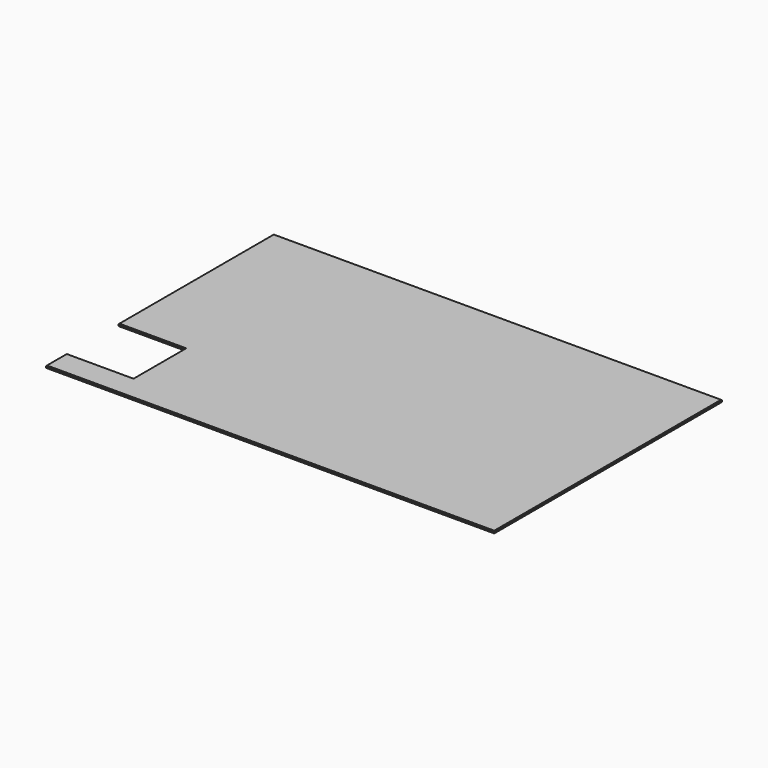
from build123d import *

# Parameters (mm, degrees)
F0_W     = 906
F0_H     = 575
F1_DEPTH = 2.5
F2_W     = 1
F2_H     = 131
F2_W_2   = 135
F3_DEPTH = 5.001
F4_SIZE  = 1


with BuildPart() as f1:
    # F0 (on Top) → F1 (new body, symmetric)
    with BuildSketch(Plane.XY):
        Rectangle(F0_W, F0_H)
    extrude(amount=F1_DEPTH, both=True)

    # F2 (on face) → F3 (cut, through all)
    with BuildSketch(Plane.XY.offset(2.5)):
        with Locations((-453.5, -170)):
            Rectangle(F2_W, F2_H)
        with Locations((-385.5, -170)):
            Rectangle(F2_W_2, F2_H)
    extrude(amount=-F3_DEPTH, mode=Mode.SUBTRACT)

    # F4
    f4_edges = [f1.edges().sort_by_distance(p)[0] for p in [
        (-453, 91.5, 2.5),
        (-453, 91.5, -2.5),
        (-453, -261.5, -2.5),
        (-453, -261.5, 2.5),
        (0, -287.5, -2.5),
        (0, -287.5, 2.5),
        (453, 0, 2.5),
        (453, 0, -2.5),
        (0, 287.5, 2.5),
        (0, 287.5, -2.5),
        (-385.5, -104.5, 2.5),
        (-385.5, -104.5, -2.5),
        (-318, -170, -2.5),
        (-318, -170, 2.5),
        (-385.5, -235.5, 2.5),
        (-385.5, -235.5, -2.5),
    ]]
    chamfer(f4_edges, length=F4_SIZE)


solid = f1.part
